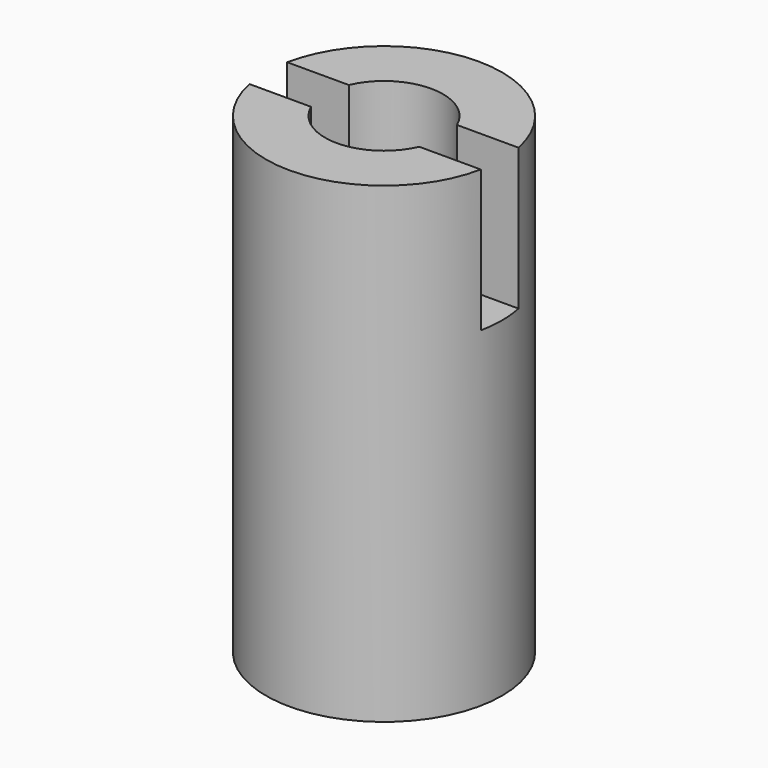
from build123d import *

# Parameters (mm, degrees)
F0_R     = 2.5
F0_R_2   = 1.25
F1_DEPTH = 10
F3_DEPTH = 3


with BuildPart() as f1:
    # F0 (on Top) → F1 (new body)
    with BuildSketch(Plane.XY):
        Circle(F0_R)
        Circle(F0_R_2, mode=Mode.SUBTRACT)
    extrude(amount=F1_DEPTH)

    # F2 (on face) → F3 (cut)
    with BuildSketch(Plane.XY.offset(10)):
        with BuildLine():
            Line((-1.1456439237, 0.5), (-2.4494897428, 0.5))
            ThreePointArc((-2.4494897428, 0.5), (-2.5, 0), (-2.4494897428, -0.5))
            Line((-2.4494897428, -0.5), (-1.1456439237, -0.5))
            ThreePointArc((-1.1456439237, -0.5), (-1.25, 0), (-1.1456439237, 0.5))
        make_face()
        with BuildLine():
            ThreePointArc((2.5, 0), (2.4873403825, 0.251272405), (2.4494897428, 0.5))
            Line((2.4494897428, 0.5), (1.1456439237, 0.5))
            ThreePointArc((1.1456439237, 0.5), (1.2236328912, 0.2553870546), (1.25, 0))
            ThreePointArc((1.25, 0), (1.2236328912, -0.2553870546), (1.1456439237, -0.5))
            Line((1.1456439237, -0.5), (2.4494897428, -0.5))
            ThreePointArc((2.4494897428, -0.5), (2.4873403825, -0.251272405), (2.5, 0))
        make_face()
    extrude(amount=-F3_DEPTH, mode=Mode.SUBTRACT)


solid = f1.part
